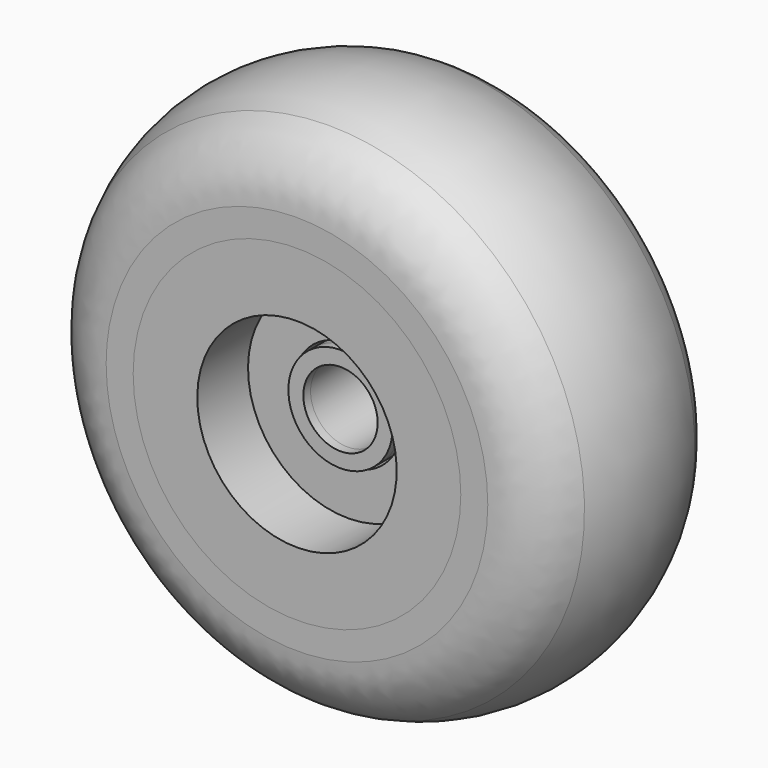
from build123d import *

# Parameters (mm, degrees)
F0_R           = 25
F0_R_2         = 11
F0_R_3         = 6
F1_DEPTH       = 12
F2_DEPTH       = 7
F6_ANGLE       = 180
F7_ANGLE       = 45
F12_R          = 1.75
F13_DEPTH      = 24.0010001
F14_R          = 8
F15_R          = 5.75
F15_R_2        = 4.1
F16_DEPTH      = 11
F16_DEPTH_BACK = 1


with BuildPart() as f1:
    # F0 (on Front) → F1 (new body)
    with BuildSketch(Plane.XZ):
        Circle(F0_R)
        Circle(F0_R_2, mode=Mode.SUBTRACT)
        Circle(F0_R_2)
        Circle(F0_R_3, mode=Mode.SUBTRACT)
    extrude(amount=F1_DEPTH)

    # F0 (on Front) → F2 (cut)
    with BuildSketch(Plane.XZ):
        Circle(F0_R_2)
        Circle(F0_R_3, mode=Mode.SUBTRACT)
    extrude(amount=F2_DEPTH, mode=Mode.SUBTRACT)


with BuildPart() as f6_1:
    # F6: copy of F1
    add(f1.part.rotate(Axis((1.772726886, -12, 0), (1, 0, 0)), F6_ANGLE))


with BuildPart() as f6_1_1:
    # F7: moved
    add(f6_1.part.rotate(Axis((0, -9.6377022564, 0), (0, -1, 0)), F7_ANGLE))


with BuildPart() as f9_tool:
    # F8 (on Top) → F9 (revolve)
    with BuildSketch(Plane.XY):
        Polygon((-25, 0), (-25, -12), (-18.0717967697, 0), align=None)
        Polygon((-18.0717967697, -24), (-25, -12), (-25, -24), align=None)
    revolve(axis=Axis((0, -9.6377022564, 0), (0, -1, 0)))


with BuildPart() as f1_1:
    add(f1.part)

    # F9: cut by f9_tool
    add(f9_tool.part, mode=Mode.SUBTRACT)

    # F12 (on face) → F13 (cut, through all)
    with BuildSketch(Plane(origin=(0, 0, 0), x_dir=(-1, 0, 0), z_dir=(0, 1, 0))):
        with Locations((0, -14.5358983849)):
            Circle(F12_R)
        with Locations((8.5439866994, -11.7597888219)):
            Circle(F12_R)
        with Locations((13.8244608791, -4.4918396294)):
            Circle(F12_R)
        with Locations((13.8244608791, 4.4918396294)):
            Circle(F12_R)
        with Locations((8.5439866994, 11.7597888219)):
            Circle(F12_R)
        with Locations((0, 14.5358983849)):
            Circle(F12_R)
        with Locations((-8.5439866994, 11.7597888219)):
            Circle(F12_R)
        with Locations((-13.8244608791, 4.4918396294)):
            Circle(F12_R)
        with Locations((-13.8244608791, -4.4918396294)):
            Circle(F12_R)
        with Locations((-8.5439866994, -11.7597888219)):
            Circle(F12_R)
    extrude(amount=-F13_DEPTH, mode=Mode.SUBTRACT)


with BuildPart() as f6_1_2:
    add(f6_1_1.part)

    # F9: cut by f9_tool
    add(f9_tool.part, mode=Mode.SUBTRACT)


with BuildPart() as f11:
    # F10 (on Top) → F11 (revolve)
    with BuildSketch(Plane.XY):
        with BuildLine():
            Line((-25, -12), (-18.0717967697, 0))
            Line((-18.0717967697, 0), (-25, 0))
            ThreePointArc((-25, 0), (-30, -12), (-25, -24))
            Line((-25, -24), (-18.0717967697, -24))
            Line((-18.0717967697, -24), (-25, -12))
        make_face()
    revolve(axis=Axis((0, -9.6377022564, 0), (0, -1, 0)))

    # F14
    f14_edges = [f11.edges().sort_by_distance(p)[0] for p in [
        (25, -24, 0),
        (25, 0, 0),
    ]]
    fillet(f14_edges, radius=F14_R)


with BuildPart() as f16:
    # F15 (on face) → F16 (new body, two sides)
    with BuildSketch(Plane.XZ.offset(17)) as f16_sk:
        Circle(F15_R)
        Circle(F15_R_2, mode=Mode.SUBTRACT)
    extrude(amount=-F16_DEPTH)
    extrude(f16_sk.sketch, amount=F16_DEPTH_BACK)


solid = Compound([f1_1.part, f6_1_2.part, f11.part, f16.part])
